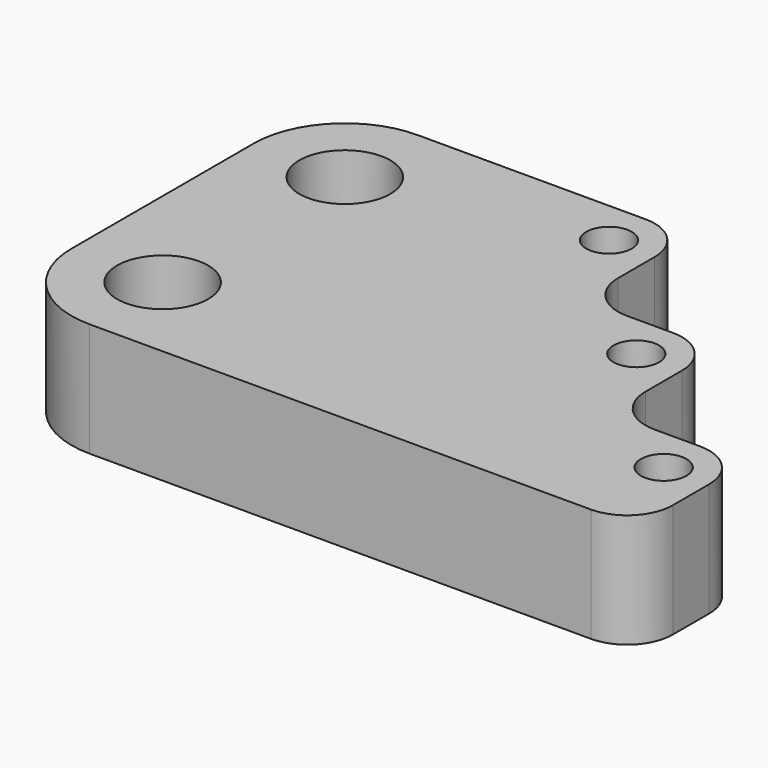
from build123d import *

# Parameters (mm, degrees)
F0_R     = 10
F0_R_2   = 5
F1_DEPTH = 25


with BuildPart() as f1:
    # F0 (on Top) → F1 (new body)
    with BuildSketch(Plane.XY):
        with BuildLine():
            ThreePointArc((-51.17389, 47.822582), (-65.316025, 41.964717), (-71.17389, 27.822582))
            Line((-71.17389, 27.822582), (-71.17389, -22.177418))
            ThreePointArc((-71.17389, -22.177418), (-65.316025, -36.319554), (-51.17389, -42.177418))
            Line((-51.17389, -42.177418), (58.82611, -42.177418))
            ThreePointArc((58.82611, -42.177418), (65.897178, -39.248486), (68.82611, -32.177418))
            Line((68.82611, -32.177418), (68.82611, -22.177418))
            ThreePointArc((68.82611, -22.177418), (65.897178, -15.106351), (58.82611, -12.177418))
            Line((58.82611, -12.177418), (48.82611, -12.177418))
            ThreePointArc((48.82611, -12.177418), (41.755043, -9.248486), (38.82611, -2.177418))
            Line((38.82611, -2.177418), (38.82611, 7.822582))
            ThreePointArc((38.82611, 7.822582), (35.897178, 14.893649), (28.82611, 17.822582))
            Line((28.82611, 17.822582), (18.82611, 17.822582))
            ThreePointArc((18.82611, 17.822582), (11.755043, 20.751514), (8.82611, 27.822582))
            Line((8.82611, 27.822582), (8.82611, 37.822582))
            ThreePointArc((8.82611, 37.822582), (5.897178, 44.893649), (-1.17389, 47.822582))
            Line((-1.17389, 47.822582), (-51.17389, 47.822582))
        make_face()
        with Locations((-51.17389, -22.177418)):
            Circle(F0_R, mode=Mode.SUBTRACT)
        with Locations((58.82611, -22.177418)):
            Circle(F0_R_2, mode=Mode.SUBTRACT)
        with Locations((-51.17389, 27.822582)):
            Circle(F0_R, mode=Mode.SUBTRACT)
        with Locations((28.82611, 7.822582)):
            Circle(F0_R_2, mode=Mode.SUBTRACT)
        with Locations((-1.17389, 37.822582)):
            Circle(F0_R_2, mode=Mode.SUBTRACT)
    extrude(amount=F1_DEPTH)


solid = f1.part
